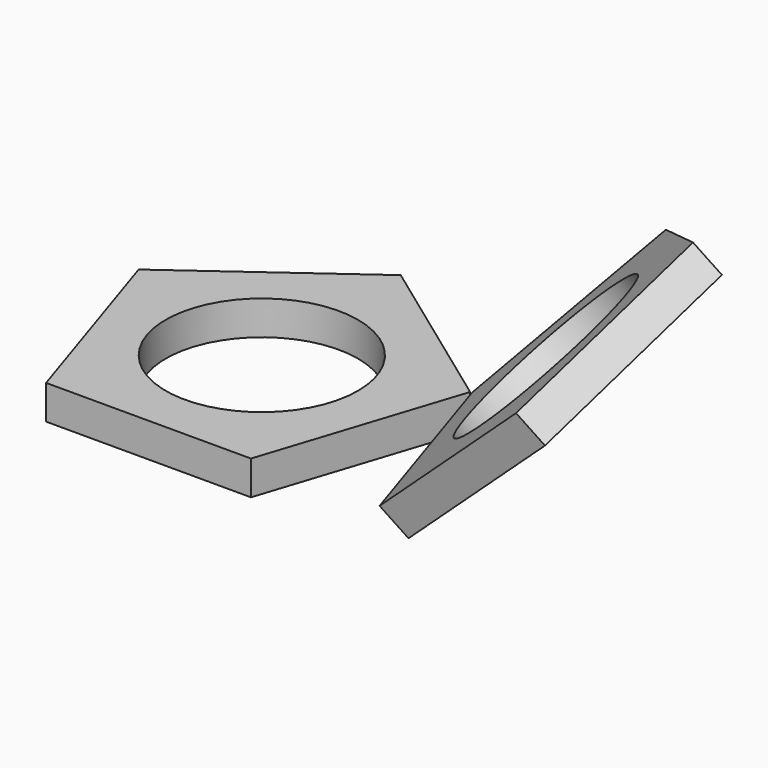
from build123d import *

# Parameters (mm, degrees)
F0_R     = 17.8837954394
F1_DEPTH = 6.35
F2_R     = 17.8837954394
F3_DEPTH = 6.35
F5_ANGLE = 45


with BuildPart() as f1:
    # F0 (on Top) → F1 (new body)
    with BuildSketch(Plane.XY):
        Polygon((30.8235474857, 33.818439796), (0, 56.2130579084), (-30.8235474857, 33.818439796), (-19.05, -2.4168134748), (19.05, -2.4168134748), align=None)
        with Locations((0, 23.9243675023)):
            Circle(F0_R, mode=Mode.SUBTRACT)
    extrude(amount=F1_DEPTH)


with BuildPart() as f3:
    # F2 (on Top) → F3 (new body)
    with BuildSketch(Plane.XY):
        Polygon((30.8235474857, 9.9949934538), (0, 32.3896115662), (-30.8235474857, 9.9949934538), (-19.05, -26.240259817), (19.05, -26.240259817), align=None)
        with Locations((0, 0.1009211602)):
            Circle(F2_R, mode=Mode.SUBTRACT)
    extrude(amount=F3_DEPTH)


with BuildPart() as f3_1:
    # F4: moved
    add(f3.part.moved(Location((61.976, 23.876, 0))))


with BuildPart() as f3_2:
    # F5: moved
    add(f3_1.part.rotate(Axis((37.0392262572, 15.7533668184, 6.35), (0.3090169944, -0.9510565163, 0)), F5_ANGLE))


solid = Compound([f1.part, f3_2.part])
